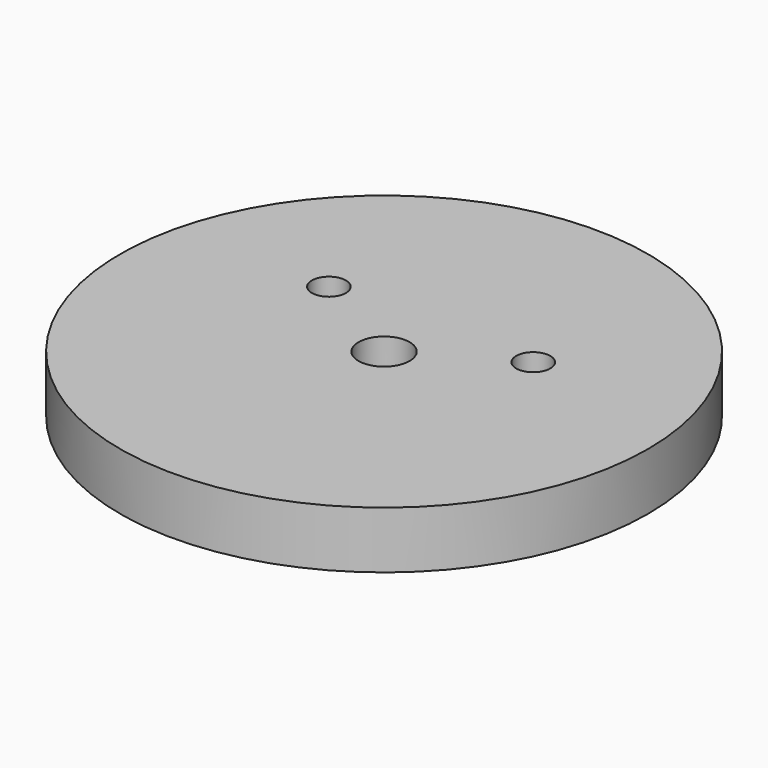
from build123d import *

# Parameters (mm, degrees)
SKETCH_R   = 31
SKETCH_R_2 = 2
SKETCH_R_3 = 3
PAD_DEPTH  = 6.7


with BuildPart() as part:
    # Sketch → Pad (new body)
    with BuildSketch(Plane.XY):
        Circle(SKETCH_R)
        with Locations((-12, 6.897516)):
            Circle(SKETCH_R_2, mode=Mode.SUBTRACT)
        with Locations((12, 6.897516)):
            Circle(SKETCH_R_2, mode=Mode.SUBTRACT)
        Circle(SKETCH_R_3, mode=Mode.SUBTRACT)
    extrude(amount=PAD_DEPTH)


solid = part.part
